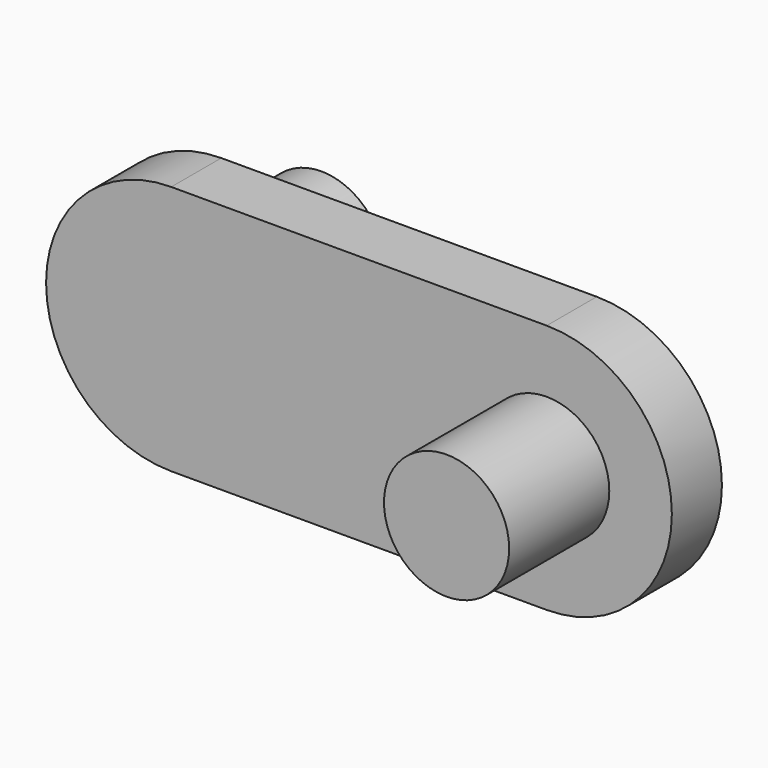
from build123d import *

# Parameters (mm, degrees)
F1_DEPTH = 5
F2_R     = 5
F3_DEPTH = 10
F4_R     = 5
F5_DEPTH = 10


with BuildPart() as f1:
    # F0 (on Front) → F1 (new body)
    with BuildSketch(Plane.XZ):
        with BuildLine():
            ThreePointArc((0, 20), (-10, 10), (0, 0))
            Line((0, 0), (30, 0))
            ThreePointArc((30, 0), (40, 10), (30, 20))
            Line((30, 20), (0, 20))
        make_face()
    extrude(amount=-F1_DEPTH)

    # F2 (on face) → F3 (join)
    with BuildSketch(Plane.XZ):
        with Locations((30, 10)):
            Circle(F2_R)
    extrude(amount=F3_DEPTH)

    # F4 (on face) → F5 (join)
    with BuildSketch(Plane(origin=(0, 5, 0), x_dir=(-1, 0, 0), z_dir=(0, 1, 0))):
        with Locations((0, 10)):
            Circle(F4_R)
    extrude(amount=F5_DEPTH)


solid = f1.part
